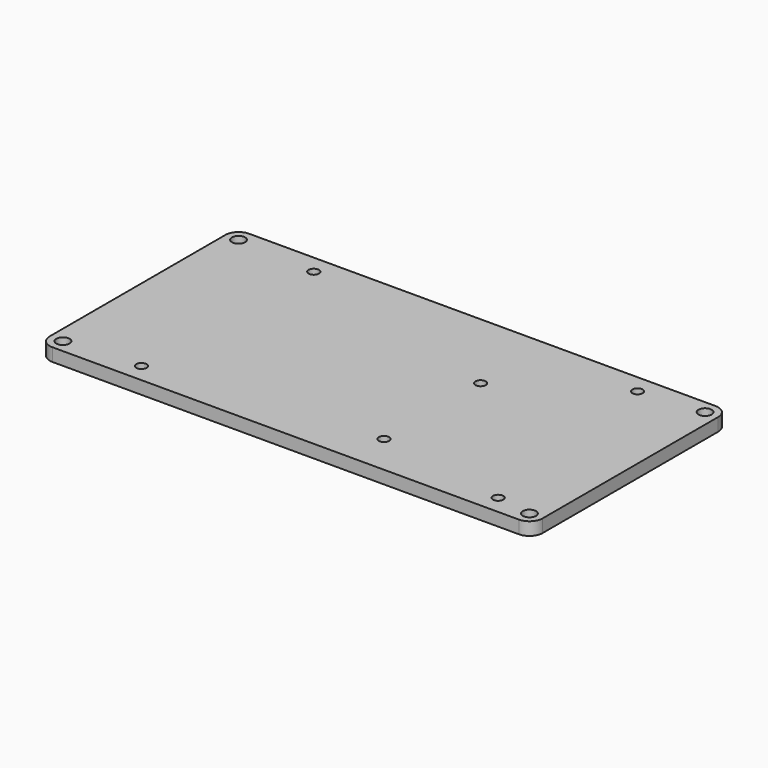
from build123d import *

# Parameters (mm, degrees)
F0_R     = 1.524
F0_R_2   = 1.1938
F1_DEPTH = 2.9972


with BuildPart() as f1:
    # F0 (on Top) → F1 (new body)
    with BuildSketch(Plane.XY):
        with BuildLine():
            ThreePointArc((0, 3.048), (0.892739, 0.892739), (3.048, 0))
            Line((3.048, 0), (110.998, 0))
            ThreePointArc((110.998, 0), (113.153261, 0.892739), (114.046, 3.048))
            Line((114.046, 3.048), (114.046, 53.848))
            ThreePointArc((114.046, 53.848), (113.153261, 56.003261), (110.998, 56.896))
            Line((110.998, 56.896), (3.048, 56.896))
            ThreePointArc((3.048, 56.896), (0.892739, 56.003261), (0, 53.848))
            Line((0, 53.848), (0, 3.048))
        make_face()
        with Locations((3.048, 3.048)):
            Circle(F0_R, mode=Mode.SUBTRACT)
        with Locations((20.193, 4.318)):
            Circle(F0_R_2, mode=Mode.SUBTRACT)
        with Locations((72.263, 9.398)):
            Circle(F0_R_2, mode=Mode.SUBTRACT)
        with Locations((110.998, 3.048)):
            Circle(F0_R, mode=Mode.SUBTRACT)
        with Locations((102.743, 4.318)):
            Circle(F0_R_2, mode=Mode.SUBTRACT)
        with Locations((3.048, 53.848)):
            Circle(F0_R, mode=Mode.SUBTRACT)
        with Locations((21.463, 52.578)):
            Circle(F0_R_2, mode=Mode.SUBTRACT)
        with Locations((72.263, 37.338)):
            Circle(F0_R_2, mode=Mode.SUBTRACT)
        with Locations((96.393, 52.578)):
            Circle(F0_R_2, mode=Mode.SUBTRACT)
        with Locations((110.998, 53.848)):
            Circle(F0_R, mode=Mode.SUBTRACT)
    extrude(amount=F1_DEPTH)


solid = f1.part
